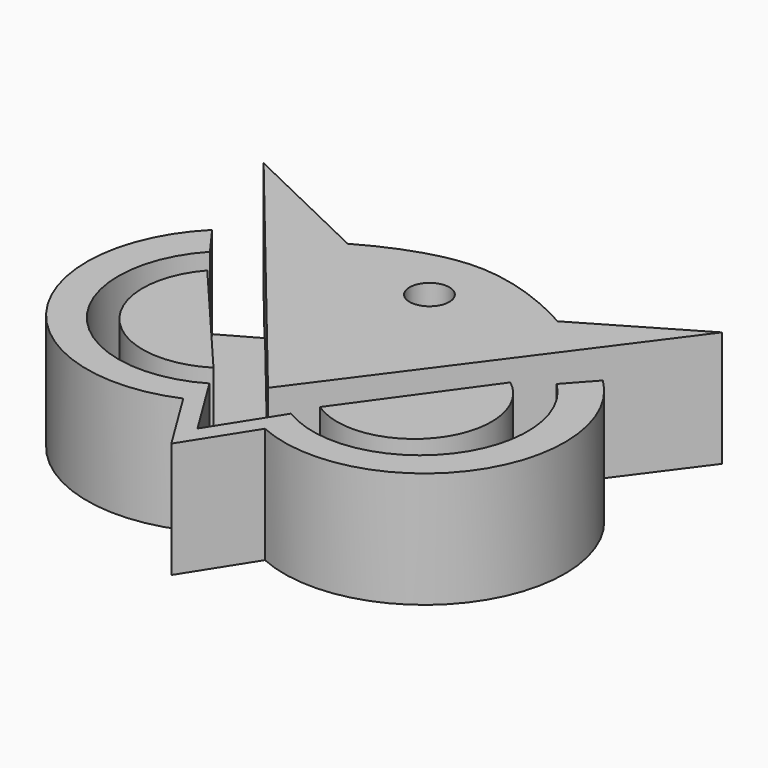
from build123d import *

# Parameters (mm, degrees)
F0_R     = 2.223213263
F3_DEPTH = 12.954
F5_DEPTH = 2.794


with BuildPart() as f3:
    # F0 (on Top) → F3 (new body)
    with BuildSketch(Plane.XY):
        with BuildLine():
            Line((-11.6053866223, 25.6520602852), (-26.873588562, 32.9812206328))
            Line((-26.873588562, 32.9812206328), (0, 0))
            Line((0, 0), (24.4305338711, 32.9812206328))
            Line((24.4305338711, 32.9812206328), (11.9098844007, 25.6520602852))
            add(Edge.make_bspline(
                [(11.9098844007, 25.6520602852), (11.8950853565, 25.5826867073), (-0.0138297746, 33.0575249946), (-11.5902944104, 25.5834590306), (-11.6053866223, 25.6520602852)],
                knots=[0, 0, 0, 0, 0.2509945987, 0.4990446693, 0.4990446693, 0.4990446693, 0.4990446693], degree=3))
        make_face()
        with Locations((0, 22.5982442498)):
            Circle(F0_R, mode=Mode.SUBTRACT)
    extrude(amount=F3_DEPTH)


with BuildPart() as f3b:
    # F1 (on Top) → F3, piece 2 (new body)
    with BuildSketch(Plane.XY):
        with BuildLine():
            ThreePointArc((-18.0245786905, 14.0363797545), (-18.1290018819, 1.8669864944), (-6.1032213271, 0))
            Line((-6.1032213271, 0), (-18.0245786905, 14.0363797545))
        make_face()
    extrude(amount=F3_DEPTH)


with BuildPart() as f3c:
    # F1 (on Top) → F3, piece 3 (new body)
    with BuildSketch(Plane.XY):
        with BuildLine():
            Line((15.905437991, 14.0363797545), (5.8181360364, 0))
            ThreePointArc((5.8181360364, 0), (17.6578116159, 2.1341988873), (15.905437991, 14.0363797545))
        make_face()
    extrude(amount=F3_DEPTH)


with BuildPart() as f3d:
    # F2 (on Top) → F3, piece 4 (new body)
    with BuildSketch(Plane.XY):
        with BuildLine():
            ThreePointArc((19.2488413304, 16.3319613785), (20.3661650087, 0.3623127877), (4.6257572249, -2.5561887305))
            Line((4.6257572249, -2.5561887305), (0, -9.8677305505))
            Line((0, -9.8677305505), (-4.513671156, -2.5561887305))
            ThreePointArc((-4.513671156, -2.5561887305), (-20.6843016825, 0.4970969832), (-20.0506988913, 16.9412568212))
            Line((-20.0506988913, 16.9412568212), (-22.4878787994, 20.2923808247))
            ThreePointArc((-22.4878787994, 20.2923808247), (-24.4657536531, -0.3958093223), (-4.513671156, -6.2119596405))
            Line((-4.513671156, -6.2119596405), (0, -13.5235014604))
            Line((0, -13.5235014604), (4.6257572249, -6.2119596405))
            ThreePointArc((4.6257572249, -6.2119596405), (24.0009877864, -0.6725727455), (21.9906680286, 19.3784367293))
            Line((21.9906680286, 19.3784367293), (19.2488413304, 16.3319613785))
        make_face()
    extrude(amount=F3_DEPTH)


with BuildPart() as f5:
    # F4 (on Top) → F5 (new body)
    with BuildSketch(Plane.XY):
        Polygon((0, 16.4906103164), (-17.4067560583, 22.903624922), (-22.292861715, 20.1551914215), (-25.0412989408, 6.1076334678), (-22.292861715, 0), (-14.3529400229, -5.8022523299), (-5.1914886571, -5.8022523299), (0, -10.6883598492), (4.5986899455, -5.8022523299), (15.2690857649, -5.8022523299), (23.5143899918, 2.7484351303), (23.5143899918, 12.2152669355), (23.5143899918, 16.7959928513), (15.2690857649, 22.5982442498), align=None)
    extrude(amount=F5_DEPTH)


solid = Compound([f3.part, f3b.part, f3c.part, f3d.part, f5.part])
